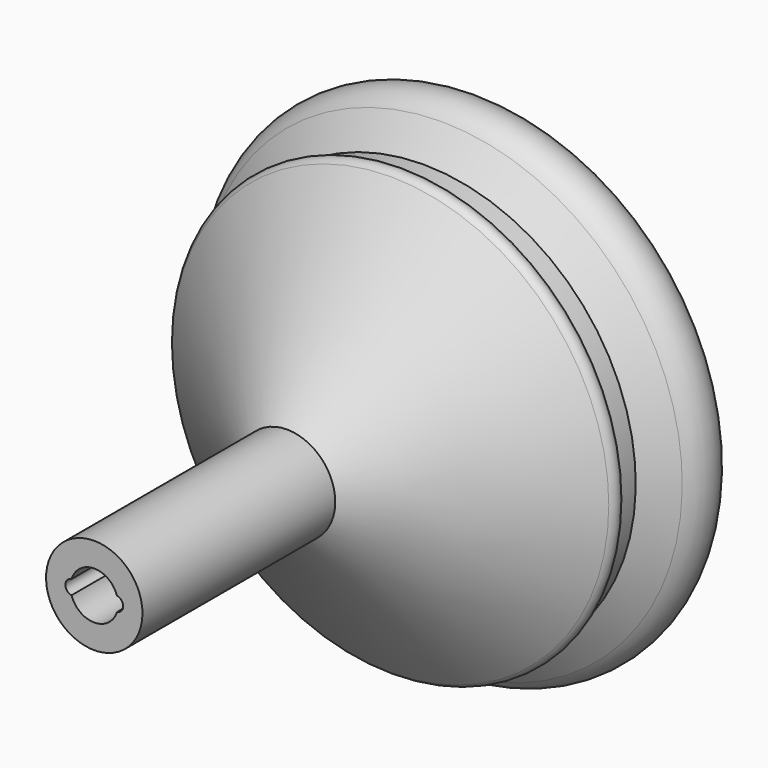
from build123d import *

# Parameters (mm, degrees)
F2_R      = 0.508
F4_DEPTH  = 25.401
F5_R      = 0.635
F6_DEPTH  = 13.330517
F7_R      = 0.635
F8_DEPTH  = 3.81
F10_DEPTH = 25.401


with BuildPart() as f1:
    # F0 (on Right) → F1 (revolve)
    with BuildSketch(Plane.YZ):
        with BuildLine():
            Line((-25.4, 1), (0, 1))
            Line((0, 1), (0, 12.7))
            ThreePointArc((0, 12.7), (-1.27, 13.329516), (-2.54, 12.7))
            Line((-2.54, 12.7), (-3.699565, 11.176))
            Line((-3.699565, 11.176), (-4.969565, 11.176))
            Line((-4.969565, 11.176), (-4.969565, 12.7))
            Line((-4.969565, 12.7), (-12.7, 2.54))
            Line((-12.7, 2.54), (-25.4, 2.54))
            Line((-25.4, 2.54), (-25.4, 1))
        make_face()
    revolve(axis=Axis((0, -12.7, 0), (0, -1, 0)))

    # F2
    f2_edges = [f1.edges().sort_by_distance(p)[0] for p in [
        (0, -4.969565, -12.7),
    ]]
    fillet(f2_edges, radius=F2_R)

    # F3 (on face) → F4 (cut, through all)
    with BuildSketch(Plane(origin=(0, 0, 0), x_dir=(-1, 0, 0), z_dir=(0, 1, 0))):
        with BuildLine():
            ThreePointArc((-1.143, 0.127), (-1.27, 0), (-1.143, -0.127))
            Line((-1.143, -0.127), (1.143, -0.127))
            ThreePointArc((1.143, -0.127), (1.27, 0), (1.143, 0.127))
            Line((1.143, 0.127), (-1.143, 0.127))
        make_face()
    extrude(amount=-F4_DEPTH, mode=Mode.SUBTRACT)

    # F5 (on Right) → F6 (cut, through all)
    with BuildSketch(Plane.YZ):
        with Locations((-4.334565, 0)):
            Circle(F5_R)
    extrude(amount=-F6_DEPTH, mode=Mode.SUBTRACT)

    # F7 (on face) → F8 (cut)
    with BuildSketch(Plane(origin=(0, 0, 0), x_dir=(-1, 0, 0), z_dir=(0, 1, 0))):
        with Locations((11.43, -2.54)):
            Circle(F7_R)
    extrude(amount=-F8_DEPTH, mode=Mode.SUBTRACT)

    # F9 (on face) → F10 (cut, through all)
    with BuildSketch(Plane(origin=(0, 0, 0), x_dir=(-1, 0, 0), z_dir=(0, 1, 0))):
        with BuildLine():
            ThreePointArc((-1.19589, 0.377311), (-1.524, 0), (-1.19589, -0.377311))
            ThreePointArc((-1.19589, -0.377311), (0, -1.254), (1.19589, -0.377311))
            ThreePointArc((1.19589, -0.377311), (1.524, 0), (1.19589, 0.377311))
            ThreePointArc((1.19589, 0.377311), (0, 1.254), (-1.19589, 0.377311))
        make_face()
        with BuildLine():
            Line((-1.143, 0.127), (-0.991903, 0.127))
            ThreePointArc((-0.991903, 0.127), (0, 1), (0.991903, 0.127))
            Line((0.991903, 0.127), (1.143, 0.127))
            ThreePointArc((1.143, 0.127), (1.27, 0), (1.143, -0.127))
            Line((1.143, -0.127), (0.991903, -0.127))
            ThreePointArc((0.991903, -0.127), (0, -1), (-0.991903, -0.127))
            Line((-0.991903, -0.127), (-1.143, -0.127))
            ThreePointArc((-1.143, -0.127), (-1.27, 0), (-1.143, 0.127))
        make_face(mode=Mode.SUBTRACT)
    extrude(amount=-F10_DEPTH, mode=Mode.SUBTRACT)


solid = f1.part
